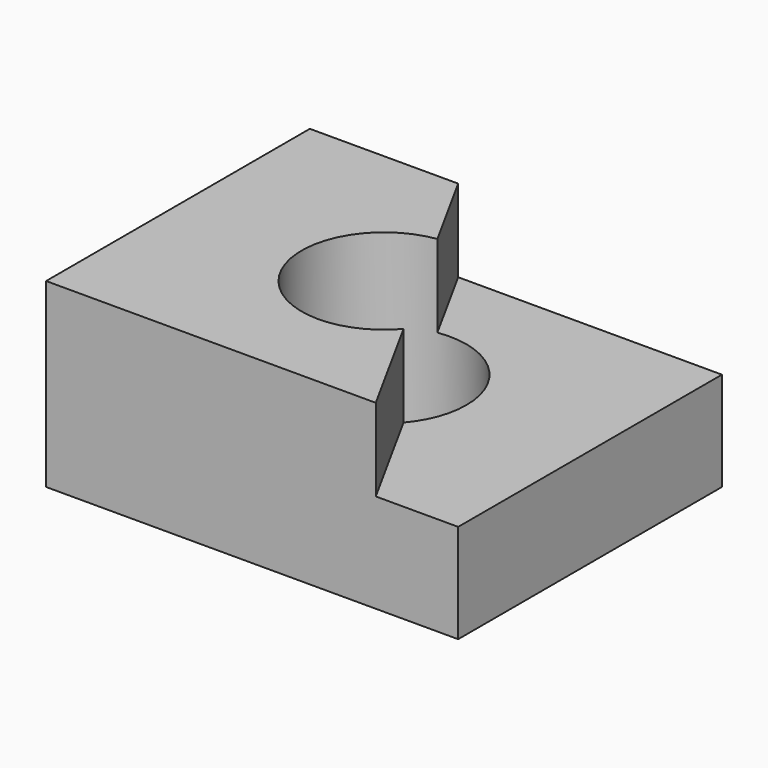
from build123d import *

# Parameters (mm, degrees)
F0_W     = 100
F0_H     = 80
F0_R     = 20
F1_DEPTH = 44
F3_DEPTH = 20


with BuildPart() as f1:
    # F0 (on Top) → F1 (new body)
    with BuildSketch(Plane.XY):
        Rectangle(F0_W, F0_H)
        Circle(F0_R, mode=Mode.SUBTRACT)
    extrude(amount=F1_DEPTH)

    # F2 (on face) → F3 (cut)
    with BuildSketch(Plane.XY.offset(44)):
        with BuildLine():
            Line((50, -40), (50, 40))
            Line((50, 40), (-14, 40))
            Line((-14, 40), (-2.8849574507, 19.7908317285))
            ThreePointArc((-2.8849574507, 19.7908317285), (13.0824472287, 15.1277749358), (20, 0))
            ThreePointArc((20, 0), (18.7534067701, -6.9505204492), (15.1690265486, -13.0345937247))
            Line((15.1690265486, -13.0345937247), (30, -40))
            Line((30, -40), (50, -40))
        make_face()
    extrude(amount=-F3_DEPTH, mode=Mode.SUBTRACT)


solid = f1.part
